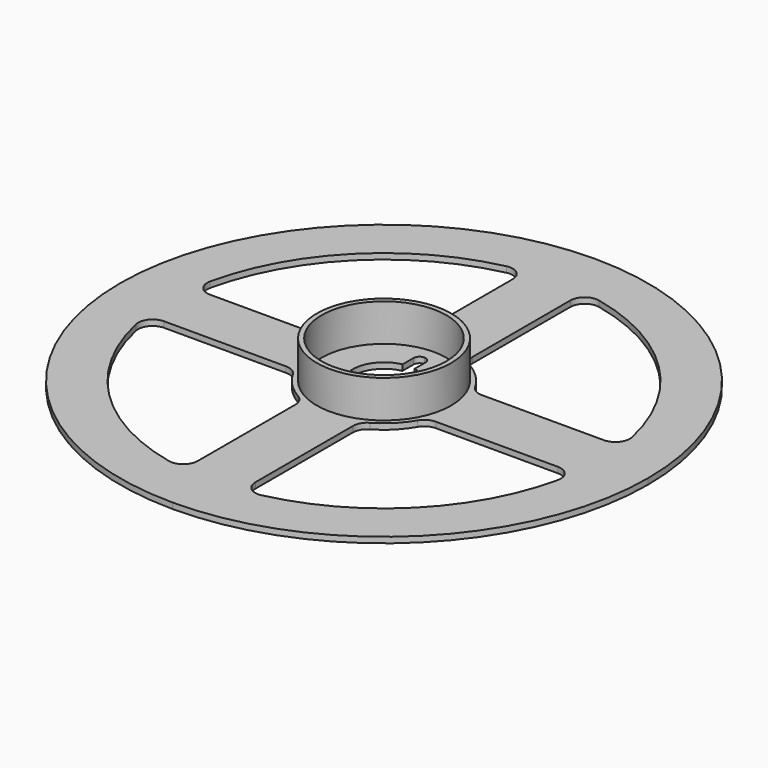
from build123d import *

# Parameters (mm, degrees)
F1_DEPTH = 1.2
F2_R     = 14
F2_R_2   = 13
F3_DEPTH = 9
F5_DEPTH = 25


with BuildPart() as f1:
    # F0 (on Top) → F1 (new body)
    with BuildSketch(Plane.XY):
        with BuildLine():
            ThreePointArc((0, 55), (-38.890873, 38.890873), (-55, 0))
            ThreePointArc((-55, 0), (-38.890873, -38.890873), (0, -55))
            ThreePointArc((0, -55), (38.890873, -38.890873), (55, 0))
            ThreePointArc((55, 0), (38.890873, 38.890873), (0, 55))
        make_face()
        with BuildLine():
            ThreePointArc((-6, -41.024383), (-7.11965, -43.361964), (-9.642857, -43.954696))
            ThreePointArc((-9.642857, -43.954696), (-31.819805, -31.819805), (-43.954696, -9.642857))
            ThreePointArc((-43.954696, -9.642857), (-43.361964, -7.11965), (-41.024383, -6))
            Line((-41.024383, -6), (-15.588457, -6))
            ThreePointArc((-15.588457, -6), (-14.088457, -6.401924), (-12.990381, -7.5))
            ThreePointArc((-12.990381, -7.5), (-10.606602, -10.606602), (-7.5, -12.990381))
            ThreePointArc((-7.5, -12.990381), (-6.401924, -14.088457), (-6, -15.588457))
            Line((-6, -15.588457), (-6, -41.024383))
        make_face(mode=Mode.SUBTRACT)
        with BuildLine():
            ThreePointArc((41.024383, -6), (43.361964, -7.11965), (43.954696, -9.642857))
            ThreePointArc((43.954696, -9.642857), (31.819805, -31.819805), (9.642857, -43.954696))
            ThreePointArc((9.642857, -43.954696), (7.11965, -43.361964), (6, -41.024383))
            Line((6, -41.024383), (6, -15.588457))
            ThreePointArc((6, -15.588457), (6.401924, -14.088457), (7.5, -12.990381))
            ThreePointArc((7.5, -12.990381), (10.606602, -10.606602), (12.990381, -7.5))
            ThreePointArc((12.990381, -7.5), (14.088457, -6.401924), (15.588457, -6))
            Line((15.588457, -6), (41.024383, -6))
        make_face(mode=Mode.SUBTRACT)
        with BuildLine():
            ThreePointArc((-7.5, 12.990381), (-10.606602, 10.606602), (-12.990381, 7.5))
            ThreePointArc((-12.990381, 7.5), (-14.088457, 6.401924), (-15.588457, 6))
            Line((-15.588457, 6), (-41.024383, 6))
            ThreePointArc((-41.024383, 6), (-43.361964, 7.11965), (-43.954696, 9.642857))
            ThreePointArc((-43.954696, 9.642857), (-31.819805, 31.819805), (-9.642857, 43.954696))
            ThreePointArc((-9.642857, 43.954696), (-7.11965, 43.361964), (-6, 41.024383))
            Line((-6, 41.024383), (-6, 15.588457))
            ThreePointArc((-6, 15.588457), (-6.401924, 14.088457), (-7.5, 12.990381))
        make_face(mode=Mode.SUBTRACT)
        with BuildLine():
            ThreePointArc((6, 41.024383), (7.11965, 43.361964), (9.642857, 43.954696))
            ThreePointArc((9.642857, 43.954696), (31.819805, 31.819805), (43.954696, 9.642857))
            ThreePointArc((43.954696, 9.642857), (43.361964, 7.11965), (41.024383, 6))
            Line((41.024383, 6), (15.588457, 6))
            ThreePointArc((15.588457, 6), (14.088457, 6.401924), (12.990381, 7.5))
            ThreePointArc((12.990381, 7.5), (10.606602, 10.606602), (7.5, 12.990381))
            ThreePointArc((7.5, 12.990381), (6.401924, 14.088457), (6, 15.588457))
            Line((6, 15.588457), (6, 41.024383))
        make_face(mode=Mode.SUBTRACT)
    extrude(amount=F1_DEPTH)

    # F2 (on Top) → F3 (join)
    with BuildSketch(Plane.XY):
        Circle(F2_R)
        Circle(F2_R_2, mode=Mode.SUBTRACT)
    extrude(amount=F3_DEPTH)

    # F4 (on Top) → F5 (cut)
    with BuildSketch(Plane.XY):
        with BuildLine():
            ThreePointArc((-6.149095, -2.106806), (-5.916805, -2.690989), (-5.629165, -3.25))
            ThreePointArc((-5.629165, -3.25), (-5.288867, -3.778608), (-4.899095, -4.271869))
            ThreePointArc((-4.899095, -4.271869), (0, -6.5), (4.899095, -4.271869))
            ThreePointArc((4.899095, -4.271869), (5.288867, -3.778608), (5.629165, -3.25))
            ThreePointArc((5.629165, -3.25), (5.916805, -2.690989), (6.149095, -2.106806))
            ThreePointArc((6.149095, -2.106806), (5.629165, 3.25), (1.25, 6.378675))
            ThreePointArc((1.25, 6.378675), (0.627937, 6.469598), (0, 6.5))
            ThreePointArc((0, 6.5), (-0.627937, 6.469598), (-1.25, 6.378675))
            ThreePointArc((-1.25, 6.378675), (-5.629165, 3.25), (-6.149095, -2.106806))
        make_face()
        with BuildLine():
            ThreePointArc((-4.899095, -4.271869), (-5.288867, -3.778608), (-5.629165, -3.25))
            ThreePointArc((-5.629165, -3.25), (-5.916805, -2.690989), (-6.149095, -2.106806))
            Line((-6.149095, -2.106806), (-8.592399, -3.517448))
            ThreePointArc((-8.592399, -3.517448), (-9.211654, -4.277101), (-9.093267, -5.25))
            ThreePointArc((-9.093267, -5.25), (-8.309905, -5.838976), (-7.342399, -5.682512))
            Line((-7.342399, -5.682512), (-4.899095, -4.271869))
        make_face()
        with BuildLine():
            ThreePointArc((5.629165, -3.25), (5.288867, -3.778608), (4.899095, -4.271869))
            Line((4.899095, -4.271869), (7.342399, -5.682512))
            ThreePointArc((7.342399, -5.682512), (8.309905, -5.838976), (9.093267, -5.25))
            ThreePointArc((9.093267, -5.25), (9.211654, -4.277101), (8.592399, -3.517448))
            Line((8.592399, -3.517448), (6.149095, -2.106806))
            ThreePointArc((6.149095, -2.106806), (5.916805, -2.690989), (5.629165, -3.25))
        make_face()
        with BuildLine():
            Line((-1.25, 9.19996), (-1.25, 6.378675))
            ThreePointArc((-1.25, 6.378675), (-0.627937, 6.469598), (0, 6.5))
            ThreePointArc((0, 6.5), (0.627937, 6.469598), (1.25, 6.378675))
            Line((1.25, 6.378675), (1.25, 9.19996))
            ThreePointArc((1.25, 9.19996), (0.901749, 10.116077), (0, 10.5))
            ThreePointArc((0, 10.5), (-0.901749, 10.116077), (-1.25, 9.19996))
        make_face()
    extrude(amount=F5_DEPTH, mode=Mode.SUBTRACT)


solid = f1.part
